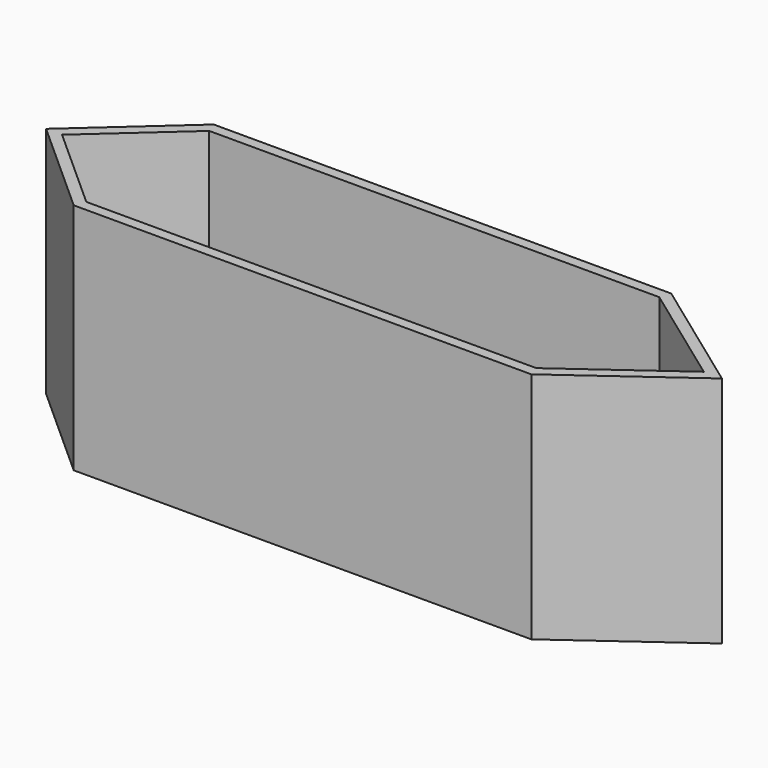
from build123d import *

# Parameters (mm, degrees)
F1_DEPTH = 55.626
F2_T     = -2.54
F3_R     = 15.24


with BuildPart() as f1:
    # F0 (on Top) → F1 (new body)
    with BuildSketch(Plane.XY):
        Polygon((-54.5444576688, -20.85977979), (54.5444576688, -20.85977979), (83.3149626851, 0), (54.5444576688, 20.85977979), (-54.5444576688, 20.85977979), (-77.8186991811, 0), align=None)
    extrude(amount=-F1_DEPTH)

    # F2
    f2_openings = [f1.faces().sort_by_distance(p)[0] for p in [
        (1.462281, 0, 0),
    ]]
    offset(amount=F2_T, openings=f2_openings)

    # F3
    f3_edges = [f1.edges().sort_by_distance(p)[0] for p in [
        (-63.792905, 9.15989, -53.086),
        (-63.792905, -9.15989, -53.086),
        (0.07388, -18.31978, -53.086),
        (66.354169, -9.15989, -53.086),
        (66.354169, 9.15989, -53.086),
        (0.07388, 18.31978, -53.086),
    ]]
    fillet(f3_edges, radius=F3_R)


solid = f1.part
